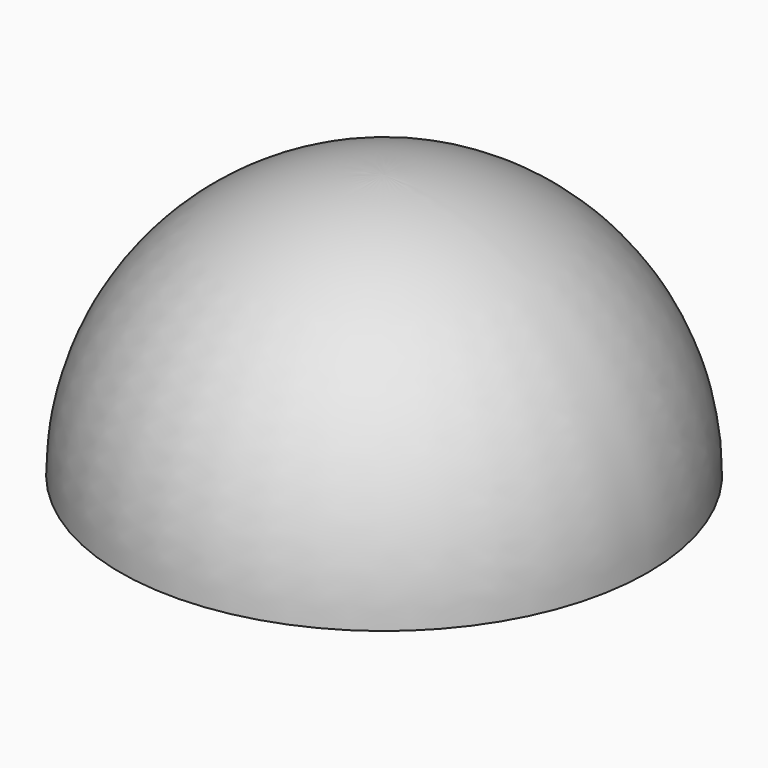
from build123d import *


with BuildPart() as part:
    # Sphere → Sphere (revolve)
    with BuildSketch(Plane.XZ):
        with BuildLine():
            ThreePointArc((10, 0), (7.071068, 7.071068), (0, 10))
            Line((0, 10), (0, 0))
            Line((0, 0), (10, 0))
        make_face()
    revolve(axis=Axis((0, 0, 0), (0, 0, 1)))

    # Sphere001 → Sphere001 (revolve, cut)
    with BuildSketch(Plane.XZ):
        with BuildLine():
            ThreePointArc((0, -9), (9, 0), (0, 9))
            Line((0, 9), (0, -9))
        make_face()
    revolve(axis=Axis((0, 0, 0), (0, 0, 1)), mode=Mode.SUBTRACT)


solid = part.part
